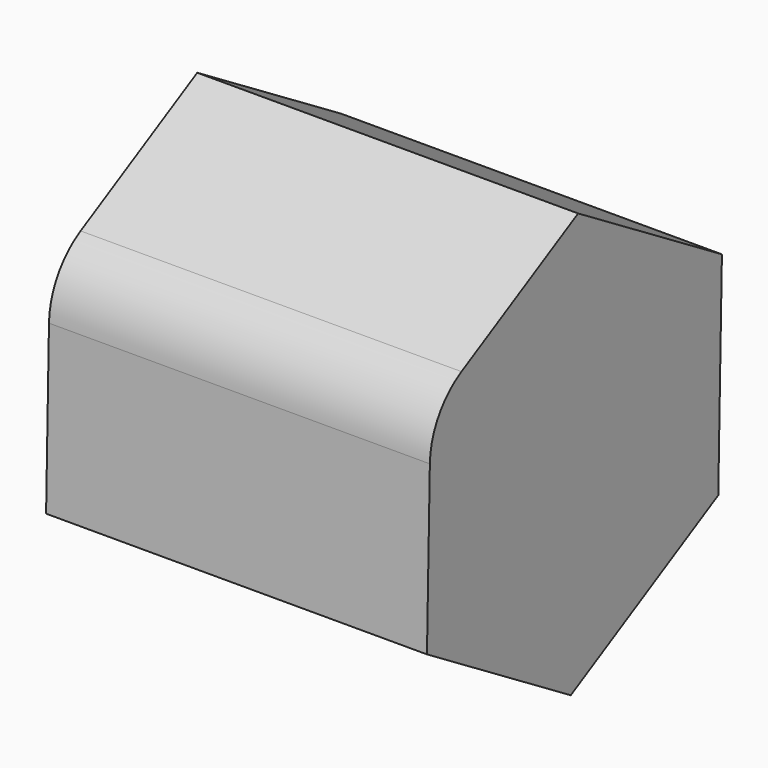
from build123d import *

# Parameters (mm, degrees)
F1_DEPTH = 63.5
F2_R     = 25.4


with BuildPart() as f1:
    # F0 (on Right) → F1 (new body, symmetric)
    with BuildSketch(Plane.YZ):
        Polygon((-61.47124, -33.72718), (-1.527025, -70.099246), (59.944215, -36.372065), (61.47124, 33.72718), (1.527025, 70.099246), (-59.944215, 36.372065), align=None)
    extrude(amount=F1_DEPTH, both=True)

    # F2
    f2_edges = [f1.edges().sort_by_distance(p)[0] for p in [
        (0, -59.944215, 36.372065),
    ]]
    fillet(f2_edges, radius=F2_R)


solid = f1.part
